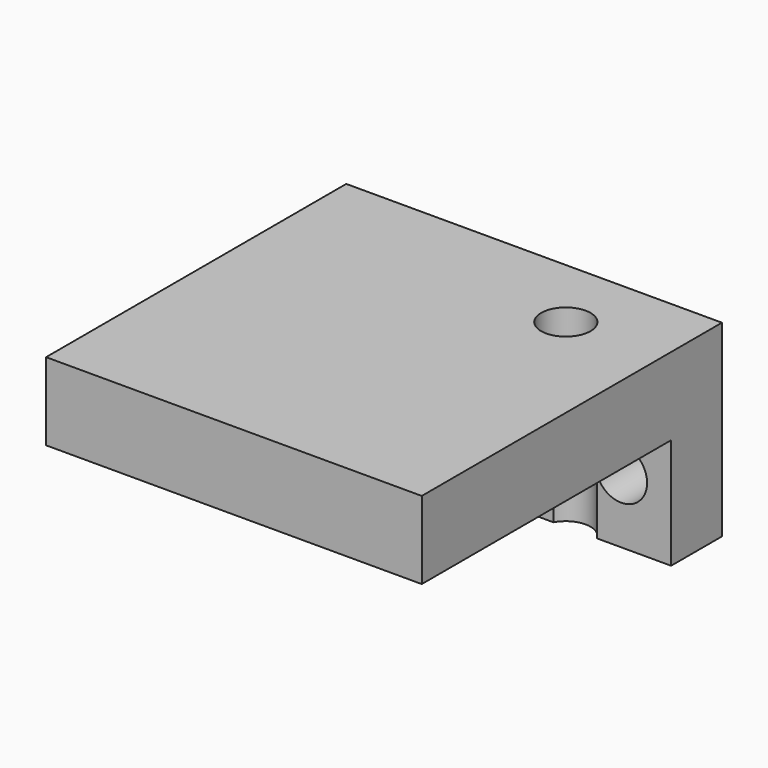
from build123d import *

# Parameters (mm, degrees)
F0_R     = 1.397
F1_DEPTH = 3.429
F2_W     = 20.2819
F2_H     = 4.191
F3_DEPTH = 16.8275
F4_R     = 1.3335
F5_DEPTH = 12.7


with BuildPart() as f1:
    # F0 (on Front) → F1 (new body)
    with BuildSketch(Plane.XZ):
        Polygon((0, 10.16), (0, 0), (20.2819, 0), (20.2819, 10.16), (10.14095, 10.16), align=None)
        with Locations((2.3495, 3.5179)):
            Circle(F0_R, mode=Mode.SUBTRACT)
        with BuildLine():
            ThreePointArc((18.9865, 3.5179), (17.5895, 2.1209), (16.1925, 3.5179))
            ThreePointArc((16.1925, 3.5179), (17.5895, 4.9149), (18.9865, 3.5179))
        make_face(mode=Mode.SUBTRACT)
    extrude(amount=F1_DEPTH)

    # F2 (on face) → F3 (join)
    with BuildSketch(Plane.XZ.offset(3.429)):
        with Locations((10.14095, 8.0645)):
            Rectangle(F2_W, F2_H)
    extrude(amount=F3_DEPTH)

    # F4 (on face) → F5 (cut, symmetric)
    with BuildSketch(Plane(origin=(0, 0, 5.969), x_dir=(1, 0, 0), z_dir=(0, 0, -1))):
        with Locations((15.10665, 4.064)):
            Circle(F4_R)
    extrude(amount=F5_DEPTH, both=True, mode=Mode.SUBTRACT)


solid = f1.part
